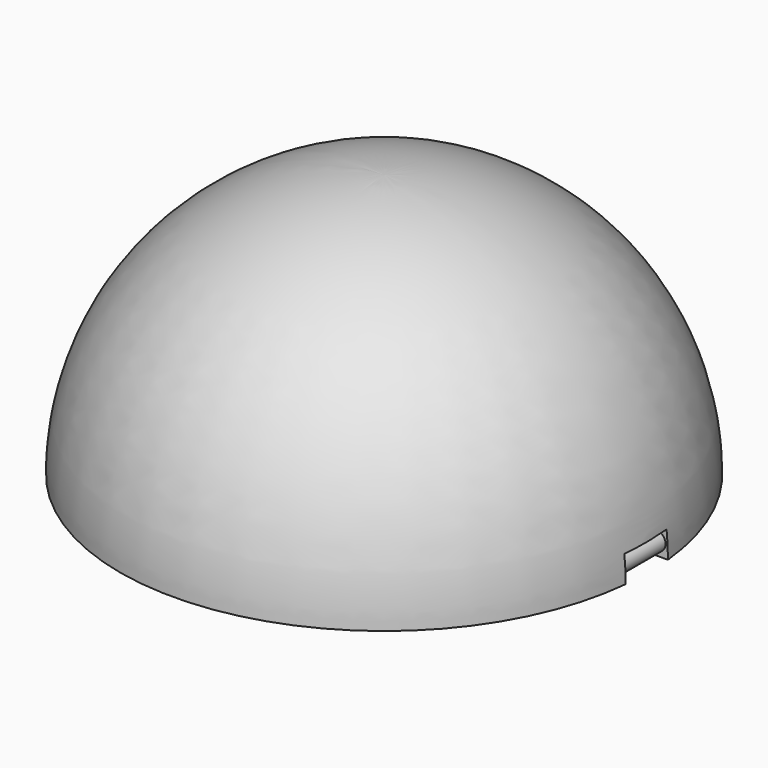
from build123d import *

# Parameters (mm, degrees)
F2_W     = 10.181908
F2_H     = 8.356313
F2_R     = 2.286
F3_DEPTH = 6.35
F5_R     = 12.7
F6_DEPTH = 25.4


with BuildPart() as f1:
    # F0 (on Front) → F1 (revolve)
    with BuildSketch(Plane.XZ):
        with BuildLine():
            Line((0, 57.149999), (0, 63.5))
            ThreePointArc((0, 63.5), (-44.901281, 44.901281), (-63.5, 0))
            Line((-63.5, 0), (-57.149999, 0))
            ThreePointArc((-57.149999, 0), (-40.411152, 40.411152), (0, 57.149999))
        make_face()
    revolve(axis=Axis((0, 0, 60.325), (0, 0, 1)))

    # F2 (on Front) → F3 (cut, symmetric)
    with BuildSketch(Plane.XZ):
        with Locations((60.270665, 2.171843)):
            Rectangle(F2_W, F2_H)
        with Locations((60.325, 3.175)):
            Circle(F2_R, mode=Mode.SUBTRACT)
    extrude(amount=F3_DEPTH, both=True, mode=Mode.SUBTRACT)

    # F5 (on offset) → F6 (cut)
    with BuildSketch(Plane.YZ.offset(-63.5)):
        Circle(F5_R)
    extrude(amount=F6_DEPTH, mode=Mode.SUBTRACT)


solid = f1.part
